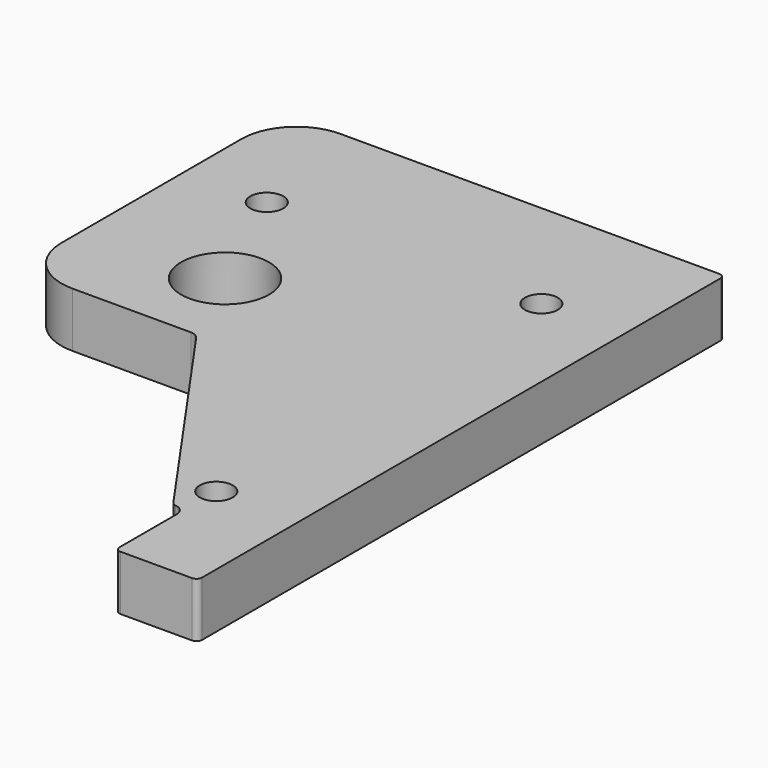
from build123d import *

# Parameters (mm, degrees)
SKETCH_R    = 8
SKETCH_R_2  = 3
PAD_DEPTH   = 10
FILLET_R    = 10
FILLET001_R = 1
FILLET002_R = 2
FILLET003_R = 1
FILLET004_R = 2


with BuildPart() as part:
    # Sketch → Pad (new body)
    with BuildSketch(Plane.XY):
        Polygon((-25, 45), (55, 45), (55, -75), (40, -75), (40, -62.235414), (40, -59), (37.734539, -59), (7.625614, -16), (-25, -16), align=None)
        Circle(SKETCH_R, mode=Mode.SUBTRACT)
        with Locations((40, -52)):
            Circle(SKETCH_R_2, mode=Mode.SUBTRACT)
        with Locations((40, 22)):
            Circle(SKETCH_R_2, mode=Mode.SUBTRACT)
        with Locations((-10, 22)):
            Circle(SKETCH_R_2, mode=Mode.SUBTRACT)
    extrude(amount=PAD_DEPTH)

    # Fillet
    fillet_edges = [part.edges().sort_by_distance(p)[0] for p in [
        (-25, -16, 5),
        (-25, 45, 5),
    ]]
    fillet(fillet_edges, radius=FILLET_R)

    # Fillet001
    fillet001_edges = [part.edges().sort_by_distance(p)[0] for p in [
        (55, -75, 5),
        (40, -75, 5),
        (55, 45, 5),
    ]]
    fillet(fillet001_edges, radius=FILLET001_R)

    # Fillet002
    fillet002_edges = [part.edges().sort_by_distance(p)[0] for p in [
        (40, -59, 5),
    ]]
    fillet(fillet002_edges, radius=FILLET002_R)

    # Fillet003
    fillet003_edges = [part.edges().sort_by_distance(p)[0] for p in [
        (37.734539, -59, 5),
    ]]
    fillet(fillet003_edges, radius=FILLET003_R)

    # Fillet004
    fillet004_edges = [part.edges().sort_by_distance(p)[0] for p in [
        (7.625614, -16, 5),
    ]]
    fillet(fillet004_edges, radius=FILLET004_R)


solid = part.part
